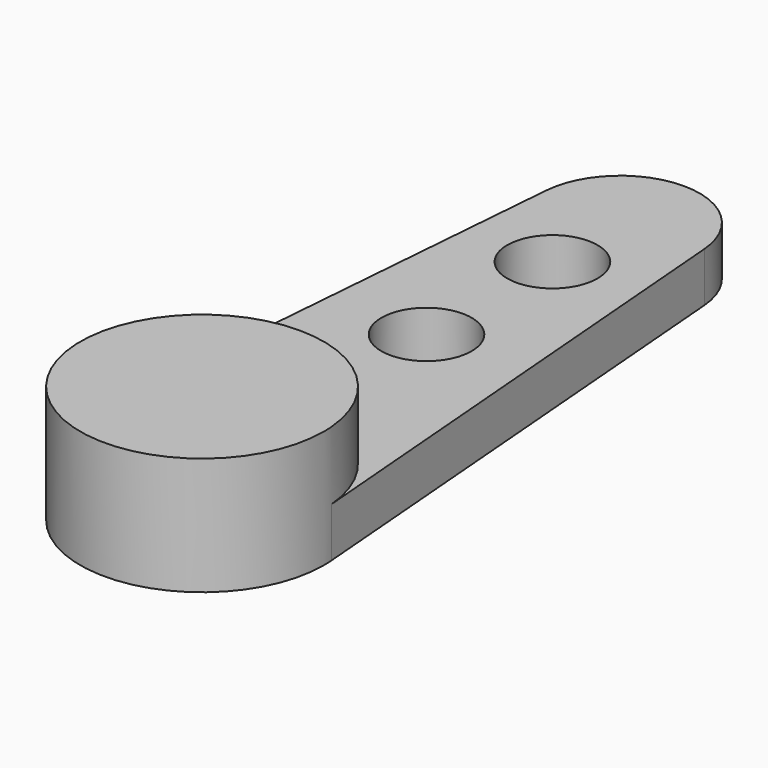
from build123d import *

# Parameters (mm, degrees)
F1_DEPTH = 1.81
F2_DEPTH = 4.3
F4_D     = 3.3


with BuildPart() as f1:
    # F0 (on Top) → F1 (new body)
    with BuildSketch(Plane.XY):
        with BuildLine():
            ThreePointArc((-4.4353227912, 0.3611256545), (0, 4.45), (4.4353227912, 0.3611256545))
            Line((4.4353227912, 0.3611256545), (2.8904350774, 19.3353403141))
            ThreePointArc((2.8904350774, 19.3353403141), (0, 22), (-2.8904350774, 19.3353403141))
            Line((-2.8904350774, 19.3353403141), (-4.4353227912, 0.3611256545))
        make_face()
        with BuildLine():
            ThreePointArc((-4.4353227912, 0.3611256545), (-0.1807118969, -4.4463291838), (4.45, 0))
            ThreePointArc((4.45, 0), (4.4463291838, 0.1807118969), (4.4353227912, 0.3611256545))
            ThreePointArc((4.4353227912, 0.3611256545), (0, 4.45), (-4.4353227912, 0.3611256545))
        make_face()
    extrude(amount=F1_DEPTH)

    # F0 (on Top) → F2 (join)
    with BuildSketch(Plane.XY):
        with BuildLine():
            ThreePointArc((-4.4353227912, 0.3611256545), (-0.1807118969, -4.4463291838), (4.45, 0))
            ThreePointArc((4.45, 0), (4.4463291838, 0.1807118969), (4.4353227912, 0.3611256545))
            ThreePointArc((4.4353227912, 0.3611256545), (0, 4.45), (-4.4353227912, 0.3611256545))
        make_face()
    extrude(amount=F2_DEPTH)

    # F4 (through all)
    with Locations(Plane(origin=(0, 0, 0), x_dir=(1, 0, 0), z_dir=(0, 0, -1))):
        with Locations((0, -10.25), (0, -16)):
            Hole(F4_D / 2)


solid = f1.part
